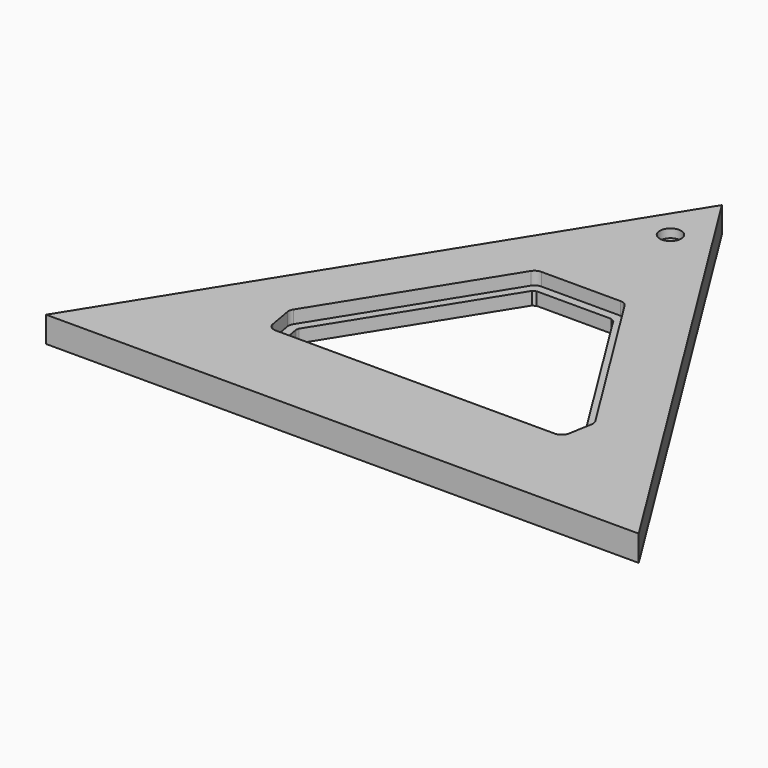
from build123d import *

# Parameters (mm, degrees)
F1_DEPTH = 3
F2_R     = 1
F3_R     = 1.25
F4_DEPTH = 1
F6_DEPTH = 1.5


with BuildPart() as f1:
    # F0 (on Top) → F1 (new body)
    with BuildSketch(Plane.XY):
        Polygon((0, 55.125), (-34.43, 0), (34.43, 0), align=None)
        Polygon((-5.15597, 34.647), (5.15597, 34.647), (17.74764, 14.486798), (17.06, 10.587), (-17.06, 10.587), (-17.74764, 14.486798), align=None, mode=Mode.SUBTRACT)
    extrude(amount=F1_DEPTH)

    # F2
    f2_edges = [f1.edges().sort_by_distance(p)[0] for p in [
        (17.06, 10.587, 1.5),
        (-17.06, 10.587, 1.5),
        (17.74764, 14.486798, 1.5),
        (-17.74764, 14.486798, 1.5),
        (5.15597, 34.647, 1.5),
        (-5.15597, 34.647, 1.5),
    ]]
    fillet(f2_edges, radius=F2_R)

    # F3 (on face) → F4 (cut)
    with BuildSketch(Plane.XY.offset(3)):
        with Locations((0, 47.652587)):
            Circle(F3_R)
    extrude(amount=-F4_DEPTH, mode=Mode.SUBTRACT)

    # F5 (on face) → F6 (join)
    with BuildSketch(Plane(origin=(0, 0, 0), x_dir=(1, 0, 0), z_dir=(0, 0, -1))):
        Polygon((20.099395, -15.818272), (20.426854, -14.132703), (19.694041, -9.976712), (17.20362, -7.887), (-17.20362, -7.887), (-19.694041, -9.976712), (-20.426854, -14.132703), (-20.099395, -15.818272), (-7.369729, -36.199417), (-5.299942, -37.347), (5.299942, -37.347), (7.369729, -36.199417), align=None)
        Polygon((4.342852, -33.647), (-4.342852, -33.647), (-4.738556, -33.427604), (-16.598042, -14.439682), (-16.664021, -14.10006), (-16.284103, -11.945441), (-15.85693, -11.587), (15.85693, -11.587), (16.284103, -11.945441), (16.664021, -14.10006), (16.598042, -14.439682), (4.738556, -33.427604), align=None, mode=Mode.SUBTRACT)
    extrude(amount=-F6_DEPTH)


solid = f1.part
